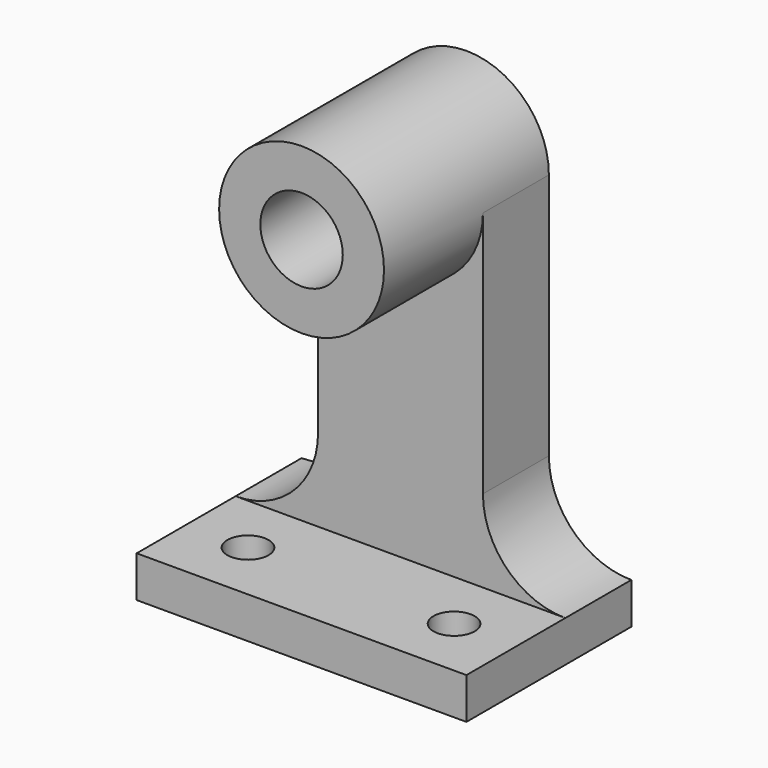
from build123d import *

# Parameters (mm, degrees)
F0_W      = 50.8
F0_H      = 31.75
F1_DEPTH  = 69.85
F2_W      = 50.8
F2_H      = 38.1
F3_DEPTH  = 19.05
F5_DEPTH  = 19.05
F6_R      = 6.35
F8_DEPTH  = 25.4
F9_R      = 3.175
F10_DEPTH = 19.05


with BuildPart() as f1:
    # F0 (on Top) → F1 (new body)
    with BuildSketch(Plane.XY):
        with Locations((25.4, 15.875)):
            Rectangle(F0_W, F0_H)
    extrude(amount=F1_DEPTH)

    # F2 (on face) → F3 (cut)
    with BuildSketch(Plane.XZ):
        with Locations((25.4, 25.4)):
            Rectangle(F2_W, F2_H)
    extrude(amount=-F3_DEPTH, mode=Mode.SUBTRACT)

    # F4 (on face) → F5 (cut)
    with BuildSketch(Plane.XZ):
        with BuildLine():
            ThreePointArc((12.7, 57.15), (16.4197438789, 66.1302561211), (25.4, 69.85))
            Line((25.4, 69.85), (0, 69.85))
            Line((0, 69.85), (0, 44.45))
            Line((0, 44.45), (12.7, 44.45))
            Line((12.7, 44.45), (12.7, 57.15))
        make_face()
        with BuildLine():
            ThreePointArc((25.4, 69.85), (34.3802561211, 66.1302561211), (38.1, 57.15))
            Line((38.1, 57.15), (38.1, 44.45))
            Line((38.1, 44.45), (50.8, 44.45))
            Line((50.8, 44.45), (50.8, 69.85))
            Line((50.8, 69.85), (25.4, 69.85))
        make_face()
        with BuildLine():
            Line((38.1, 44.45), (38.1, 57.15))
            ThreePointArc((38.1, 57.15), (34.3802561211, 48.1697438789), (25.4, 44.45))
            Line((25.4, 44.45), (38.1, 44.45))
        make_face()
        with BuildLine():
            Line((12.7, 44.45), (25.4, 44.45))
            ThreePointArc((25.4, 44.45), (16.4197438789, 48.1697438789), (12.7, 57.15))
            Line((12.7, 57.15), (12.7, 44.45))
        make_face()
    extrude(amount=-F5_DEPTH, mode=Mode.SUBTRACT)

    # F7 (on face) + F6 (on face) → F8 (cut)
    with BuildSketch(Plane.XZ.offset(-19.05)):
        with BuildLine():
            ThreePointArc((25.4, 69.85), (34.3802561211, 66.1302561211), (38.1, 57.15))
            Line((38.1, 57.15), (38.1, 19.05))
            ThreePointArc((38.1, 19.05), (41.8197438789, 10.0697438789), (50.8, 6.35))
            Line((50.8, 6.35), (50.8, 69.85))
            Line((50.8, 69.85), (25.4, 69.85))
        make_face()
        with BuildLine():
            Line((12.7, 19.05), (12.7, 57.15))
            ThreePointArc((12.7, 57.15), (16.4197438789, 66.1302561211), (25.4, 69.85))
            Line((25.4, 69.85), (0, 69.85))
            Line((0, 69.85), (0, 6.35))
            ThreePointArc((0, 6.35), (8.9802561211, 10.0697438789), (12.7, 19.05))
        make_face()
    with BuildSketch(Plane.XZ):
        with Locations((25.4, 57.15)):
            Circle(F6_R)
    extrude(amount=-F8_DEPTH, mode=Mode.SUBTRACT)

    # F9 (on Top) → F10 (cut)
    with BuildSketch(Plane.XY):
        with Locations((41.275, 9.525)):
            Circle(F9_R)
        with Locations((9.525, 9.525)):
            Circle(F9_R)
    extrude(amount=F10_DEPTH, mode=Mode.SUBTRACT)


solid = f1.part
